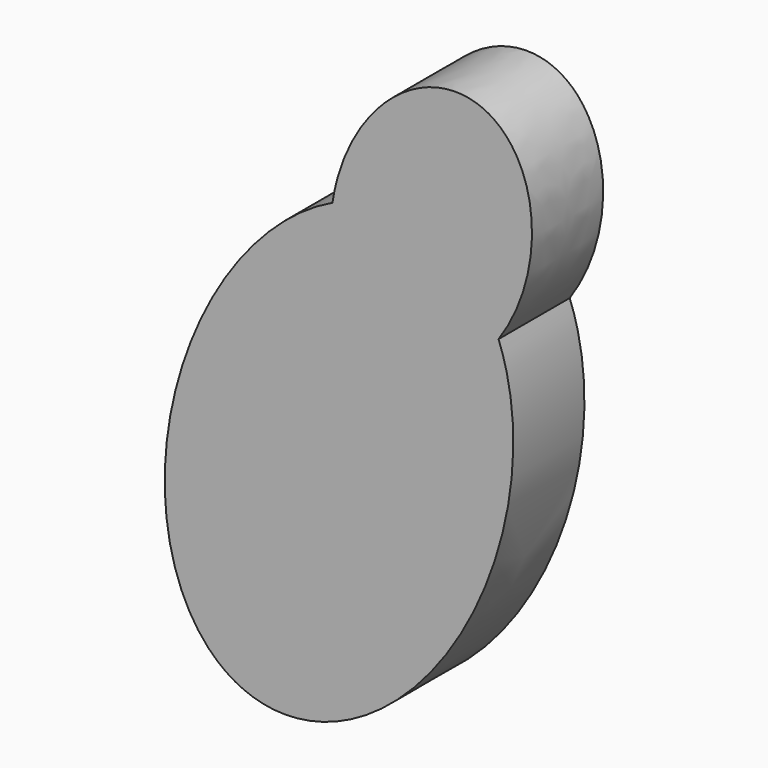
from build123d import *

# Parameters (mm, degrees)
F1_DEPTH = 25.4


with BuildPart() as f1:
    # F0 (on Front) → F1 (new body)
    with BuildSketch(Plane.XZ):
        with BuildLine():
            add(Edge.make_bspline(
                [(24.509603263, 130.9551801315), (-137.3864498713, 54.4622447016), (0, 0)],
                knots=[3.7375221912, 3.7375221912, 3.7375221912, 6.2831853072, 6.2831853072, 6.2831853072], degree=2, weights=[1, 0.2935752653, 1]))
            add(Edge.make_bspline(
                [(0, 0), (136.9496426876, -54.2890871614), (71.9089332794, 112.0878868968)],
                knots=[0, 0, 0, 2.5438733855, 2.5438733855, 2.5438733855], degree=2, weights=[1, 0.2944305815, 1]))
            add(Edge.make_bspline(
                [(38.7641079724, 97.0910191536), (56.6578267718, 90.1348794245), (71.9089332794, 112.0878868968)],
                knots=[0, 0, 0, 1.2386236591, 1.2386236591, 1.2386236591], degree=2, weights=[1, 0.8142781151, 1]))
            add(Edge.make_bspline(
                [(24.509603263, 130.9551801315), (20.6565539276, 104.1302868151), (38.7641079724, 97.0910191536)],
                knots=[5.0333100274, 5.0333100274, 5.0333100274, 6.2831853072, 6.2831853072, 6.2831853072], degree=2, weights=[1, 0.8109996047, 1]))
        make_face()
        with BuildLine():
            add(Edge.make_bspline(
                [(38.7641079724, 97.0910191536), (56.6578267718, 90.1348794245), (71.9089332794, 112.0878868968)],
                knots=[0, 0, 0, 1.2386236591, 1.2386236591, 1.2386236591], degree=2, weights=[1, 0.8142781151, 1]))
            add(Edge.make_bspline(
                [(71.9089332794, 112.0878868968), (58.2932702721, 146.9173472695), (24.509603263, 130.9551801315)],
                knots=[2.5438733855, 2.5438733855, 2.5438733855, 3.7375221912, 3.7375221912, 3.7375221912], degree=2, weights=[1, 0.8271245274, 1]))
            add(Edge.make_bspline(
                [(24.509603263, 130.9551801315), (20.6565539276, 104.1302868151), (38.7641079724, 97.0910191536)],
                knots=[5.0333100274, 5.0333100274, 5.0333100274, 6.2831853072, 6.2831853072, 6.2831853072], degree=2, weights=[1, 0.8109996047, 1]))
        make_face()
        with BuildLine():
            add(Edge.make_bspline(
                [(71.9089332794, 112.0878868968), (58.2932702721, 146.9173472695), (24.509603263, 130.9551801315)],
                knots=[2.5438733855, 2.5438733855, 2.5438733855, 3.7375221912, 3.7375221912, 3.7375221912], degree=2, weights=[1, 0.8271245274, 1]))
            add(Edge.make_bspline(
                [(71.9089332794, 112.0878868968), (101.7419991075, 155.0307066009), (66.8498204983, 168.9195308774), (31.9576418891, 182.8083551538), (24.509603263, 130.9551801315)],
                knots=[1.2386236591, 1.2386236591, 1.2386236591, 3.1359668433, 3.1359668433, 5.0333100274, 5.0333100274, 5.0333100274], degree=2, weights=[1, 0.5827631235, 1, 0.5827631235, 1]))
        make_face()
    extrude(amount=F1_DEPTH)


solid = f1.part
